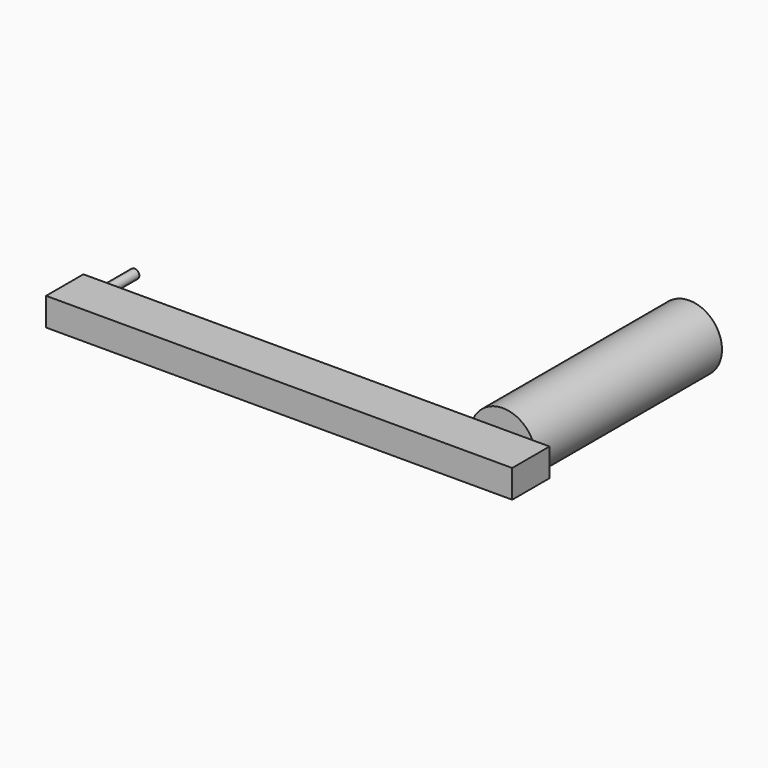
from build123d import *

# Parameters (mm, degrees)
F0_W     = 50
F0_H     = 5
F1_DEPTH = 3
F2_R     = 0.5
F3_DEPTH = 5
F4_R     = 3.5
F5_DEPTH = 25


with BuildPart() as f1:
    # F0 (on Top) → F1 (new body)
    with BuildSketch(Plane.XY):
        with Locations((25, 2.5)):
            Rectangle(F0_W, F0_H)
    extrude(amount=F1_DEPTH)

    # F2 (on face) → F3 (join)
    with BuildSketch(Plane(origin=(0, 5, 0), x_dir=(-1, 0, 0), z_dir=(0, 1, 0))):
        with Locations((-1.5, 1.5)):
            Circle(F2_R)
    extrude(amount=F3_DEPTH)

    # F4 (on face) → F5 (join)
    with BuildSketch(Plane(origin=(0, 5, 0), x_dir=(-1, 0, 0), z_dir=(0, 1, 0))):
        with Locations((-45, 1.5)):
            Circle(F4_R)
    extrude(amount=F5_DEPTH)


solid = f1.part
